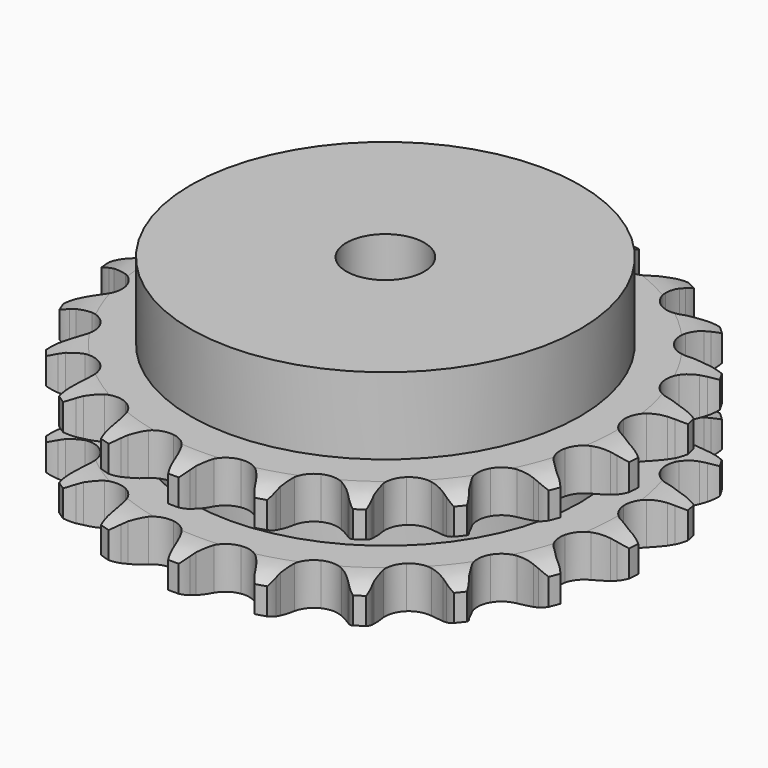
from build123d import *

# Parameters (mm, degrees)
PAD_DEPTH         = 30.3
SKETCH001_R       = 50
PAD001_DEPTH      = 50
SKETCH002_R       = 10
POCKET_DEPTH      = 0.001
POCKET_DEPTH_BACK = 50.001


with BuildPart() as part:
    # Sprocket → Pad (new body)
    with BuildSketch(Plane.XY):
        with BuildLine():
            ThreePointArc((-10.414973, 69.098829), (-8.724114, 67.329966), (-7.515976, 65.201991))
            Line((-7.515976, 65.201991), (-6.933334, 63.79702))
            ThreePointArc((-6.933334, 63.79702), (-5.997831, 61.908917), (-4.8188, 60.162498))
            ThreePointArc((-4.8188, 60.162498), (-2.682336, 58.425798), (0, 57.804771))
            ThreePointArc((0, 57.804771), (2.682336, 58.425798), (4.8188, 60.162498))
            ThreePointArc((4.8188, 60.162498), (5.997831, 61.908917), (6.933334, 63.79702))
            Line((6.933334, 63.79702), (7.515976, 65.201991))
            ThreePointArc((7.515976, 65.201991), (8.724114, 67.329966), (10.414973, 69.098829))
            ThreePointArc((10.414973, 69.098829), (11.50933, 66.910163), (12.036562, 64.520622))
            Line((12.036562, 64.520622), (12.179197, 63.006333))
            ThreePointArc((12.179197, 63.006333), (12.516609, 60.92637), (13.128493, 58.910013))
            ThreePointArc((13.128493, 58.910013), (14.658139, 56.620737), (17.038255, 55.236667))
            ThreePointArc((17.038255, 55.236667), (19.784474, 55.039472), (22.337922, 56.069281))
            Line((22.337922, 56.069281), (25.429807, 58.919061))
            ThreePointArc((25.429807, 58.919061), (25.901113, 59.516189), (26.400686, 60.089876))
            ThreePointArc((26.400686, 60.089876), (28.182382, 61.767207), (30.319502, 62.959095))
            ThreePointArc((30.319502, 62.959095), (30.720119, 60.545097), (30.519599, 58.106313))
            Line((30.519599, 58.106313), (30.209552, 56.617257))
            ThreePointArc((30.209552, 56.617257), (29.918894, 54.530247), (29.909262, 52.423115))
            ThreePointArc((29.909262, 52.423115), (30.696174, 49.784674), (32.562587, 47.760543))
            ThreePointArc((32.562587, 47.760543), (35.128674, 46.762646), (37.872221, 46.994062))
            Line((37.872221, 46.994062), (41.66673, 48.805885))
            ThreePointArc((41.66673, 48.805885), (42.293104, 49.237564), (42.93958, 49.638513))
            ThreePointArc((42.93958, 49.638513), (45.136522, 50.71616), (47.530011, 51.225169))
            ThreePointArc((47.530011, 51.225169), (47.201291, 48.800335), (46.290835, 46.529003))
            Line((46.290835, 46.529003), (45.555656, 45.19749))
            ThreePointArc((45.555656, 45.19749), (44.662754, 43.288872), (44.032462, 41.278194))
            ThreePointArc((44.032462, 41.278194), (44.006719, 38.525024), (45.19359, 36.040685))
            ThreePointArc((45.19359, 36.040685), (47.351538, 34.330755), (50.041408, 33.743214))
            Line((50.041408, 33.743214), (54.201381, 34.356093))
            ThreePointArc((54.201381, 34.356093), (54.927167, 34.583966), (55.663103, 34.77655))
            ThreePointArc((55.663103, 34.77655), (58.080084, 35.15876), (60.517269, 34.939662))
            ThreePointArc((60.517269, 34.939662), (59.488421, 32.719448), (57.948927, 30.817387))
            Line((57.948927, 30.817387), (56.85394, 29.761727))
            ThreePointArc((56.85394, 29.761727), (55.438132, 28.201091), (54.243185, 26.465523))
            ThreePointArc((54.243185, 26.465523), (53.407075, 23.842257), (53.808944, 21.118454))
            ThreePointArc((53.808944, 21.118454), (55.36701, 18.848425), (57.764195, 17.494134))
            Line((57.764195, 17.494134), (61.920002, 16.85361))
            ThreePointArc((61.920002, 16.85361), (62.68071, 16.857431), (63.440716, 16.824537))
            ThreePointArc((63.440716, 16.824537), (65.862975, 16.47735), (68.127303, 15.549612))
            ThreePointArc((68.127303, 15.549612), (66.489744, 13.731295), (64.458003, 12.367511))
            Line((64.458003, 12.367511), (63.100502, 11.681504))
            ThreePointArc((63.100502, 11.681504), (61.287589, 10.607519), (59.634162, 9.301275))
            ThreePointArc((59.634162, 9.301275), (58.061977, 7.041001), (57.643137, 4.319756))
            ThreePointArc((57.643137, 4.319756), (58.462879, 1.691329), (60.354381, -0.309377))
            Line((60.354381, -0.309377), (64.136759, -2.146389))
            ThreePointArc((64.136759, -2.146389), (64.864797, -2.366961), (65.581342, -2.622409))
            ThreePointArc((65.581342, -2.622409), (67.793652, -3.668145), (69.683927, -5.222088))
            ThreePointArc((69.683927, -5.222088), (67.583162, -6.476945), (65.239703, -7.181273))
            Line((65.239703, -7.181273), (63.740307, -7.436672))
            ThreePointArc((63.740307, -7.436672), (61.691375, -7.928577), (59.726382, -8.689432))
            ThreePointArc((59.726382, -8.689432), (57.557818, -10.385879), (56.355485, -12.862772))
            ThreePointArc((56.355485, -12.862772), (56.364066, -15.616048), (57.581815, -18.085398))
            Line((57.581815, -18.085398), (60.654683, -20.955673))
            ThreePointArc((60.654683, -20.955673), (61.285362, -21.381038), (61.894779, -21.836342))
            ThreePointArc((61.894779, -21.836342), (63.700565, -23.487709), (65.048828, -25.529784))
            ThreePointArc((65.048828, -25.529784), (62.671518, -26.109679), (60.224568, -26.091969))
            Line((60.224568, -26.091969), (58.716507, -25.894067))
            ThreePointArc((58.716507, -25.894067), (56.613611, -25.760184), (54.511652, -25.908046))
            ThreePointArc((54.511652, -25.908046), (51.939394, -26.889928), (50.0604, -28.902385))
            ThreePointArc((50.0604, -28.902385), (49.257058, -31.535871), (49.692851, -34.254452))
            Line((49.692851, -34.254452), (51.783173, -37.902953))
            ThreePointArc((51.783173, -37.902953), (52.260453, -38.495316), (52.708592, -39.110021))
            ThreePointArc((52.708592, -39.110021), (53.947404, -41.220288), (54.633855, -43.569046))
            ThreePointArc((54.633855, -43.569046), (52.191236, -43.422453), (49.858217, -42.684279))
            Line((49.858217, -42.684279), (48.475487, -42.05066))
            ThreePointArc((48.475487, -42.05066), (46.505479, -41.302886), (44.453321, -40.824615))
            ThreePointArc((44.453321, -40.824615), (41.705927, -41.004689), (39.317229, -42.373896))
            ThreePointArc((39.317229, -42.373896), (37.773344, -44.653593), (37.38846, -47.379848))
            Line((37.38846, -47.379848), (38.3105, -51.482389))
            ThreePointArc((38.3105, -51.482389), (38.591975, -52.189116), (38.839016, -52.908603))
            ThreePointArc((38.839016, -52.908603), (39.400779, -55.290262), (39.364425, -57.737007))
            ThreePointArc((39.364425, -57.737007), (37.073533, -56.876952), (35.061744, -55.483904))
            Line((35.061744, -55.483904), (33.927207, -54.470868))
            ThreePointArc((33.927207, -54.470868), (32.265132, -53.175646), (30.445118, -52.113739))
            ThreePointArc((30.445118, -52.113739), (27.766705, -51.476003), (25.08055, -52.080299))
            ThreePointArc((25.08055, -52.080299), (22.933302, -53.803648), (21.761941, -56.295337))
            Line((21.761941, -56.295337), (21.433772, -60.487389))
            ThreePointArc((21.433772, -60.487389), (21.494429, -61.245685), (21.518423, -62.006023))
            ThreePointArc((21.518423, -62.006023), (21.353222, -64.447455), (20.597292, -66.774781))
            ThreePointArc((20.597292, -66.774781), (18.661684, -65.277684), (17.149881, -63.35354))
            Line((17.149881, -63.35354), (16.364346, -62.0511))
            ThreePointArc((16.364346, -62.0511), (15.157886, -60.323516), (13.731733, -58.772328))
            ThreePointArc((13.731733, -58.772328), (11.36029, -57.373449), (8.615354, -57.159139))
            ThreePointArc((8.615354, -57.159139), (6.055537, -58.173012), (4.201777, -60.208737))
            Line((4.201777, -60.208737), (2.652558, -64.117819))
            ThreePointArc((2.652558, -64.117819), (2.48701, -64.860305), (2.285824, -65.593936))
            ThreePointArc((2.285824, -65.593936), (1.408338, -67.878208), (0, -69.879324))
            ThreePointArc((0, -69.879324), (-1.408338, -67.878208), (-2.285824, -65.593936))
            Line((-2.285824, -65.593936), (-2.652558, -64.117819))
            ThreePointArc((-2.652558, -64.117819), (-3.296205, -62.111376), (-4.201777, -60.208737))
            ThreePointArc((-4.201777, -60.208737), (-6.055537, -58.173012), (-8.615354, -57.159139))
            ThreePointArc((-8.615354, -57.159139), (-11.36029, -57.373449), (-13.731733, -58.772328))
            Line((-13.731733, -58.772328), (-16.364346, -62.0511))
            ThreePointArc((-16.364346, -62.0511), (-16.741392, -62.711802), (-17.149881, -63.35354))
            ThreePointArc((-17.149881, -63.35354), (-18.661684, -65.277684), (-20.597292, -66.774781))
            ThreePointArc((-20.597292, -66.774781), (-21.353222, -64.447455), (-21.518423, -62.006023))
            Line((-21.518423, -62.006023), (-21.433772, -60.487389))
            ThreePointArc((-21.433772, -60.487389), (-21.457413, -58.380369), (-21.761941, -56.295337))
            ThreePointArc((-21.761941, -56.295337), (-22.933302, -53.803648), (-25.08055, -52.080299))
            ThreePointArc((-25.08055, -52.080299), (-27.766705, -51.476003), (-30.445118, -52.113739))
            Line((-30.445118, -52.113739), (-33.927207, -54.470868))
            ThreePointArc((-33.927207, -54.470868), (-34.482247, -54.991081), (-35.061744, -55.483904))
            ThreePointArc((-35.061744, -55.483904), (-37.073533, -56.876952), (-39.364425, -57.737007))
            ThreePointArc((-39.364425, -57.737007), (-39.400779, -55.290262), (-38.839016, -52.908603))
            Line((-38.839016, -52.908603), (-38.3105, -51.482389))
            ThreePointArc((-38.3105, -51.482389), (-37.712036, -49.462009), (-37.38846, -47.379848))
            ThreePointArc((-37.38846, -47.379848), (-37.773344, -44.653593), (-39.317229, -42.373896))
            ThreePointArc((-39.317229, -42.373896), (-41.705927, -41.004689), (-44.453321, -40.824615))
            Line((-44.453321, -40.824615), (-48.475487, -42.05066))
            ThreePointArc((-48.475487, -42.05066), (-49.159203, -42.384161), (-49.858217, -42.684279))
            ThreePointArc((-49.858217, -42.684279), (-52.191236, -43.422453), (-54.633855, -43.569046))
            ThreePointArc((-54.633855, -43.569046), (-53.947404, -41.220288), (-52.708592, -39.110021))
            Line((-52.708592, -39.110021), (-51.783173, -37.902953))
            ThreePointArc((-51.783173, -37.902953), (-50.61578, -36.148733), (-49.692851, -34.254452))
            ThreePointArc((-49.692851, -34.254452), (-49.257058, -31.535871), (-50.0604, -28.902385))
            ThreePointArc((-50.0604, -28.902385), (-51.939394, -26.889928), (-54.511652, -25.908046))
            Line((-54.511652, -25.908046), (-58.716507, -25.894067))
            ThreePointArc((-58.716507, -25.894067), (-59.468148, -26.011222), (-60.224568, -26.091969))
            ThreePointArc((-60.224568, -26.091969), (-62.671518, -26.109679), (-65.048828, -25.529784))
            ThreePointArc((-65.048828, -25.529784), (-63.700565, -23.487709), (-61.894779, -21.836342))
            Line((-61.894779, -21.836342), (-60.654683, -20.955673))
            ThreePointArc((-60.654683, -20.955673), (-59.022089, -19.623483), (-57.581815, -18.085398))
            ThreePointArc((-57.581815, -18.085398), (-56.364066, -15.616048), (-56.355485, -12.862772))
            ThreePointArc((-56.355485, -12.862772), (-57.557818, -10.385879), (-59.726382, -8.689432))
            Line((-59.726382, -8.689432), (-63.740307, -7.436672))
            ThreePointArc((-63.740307, -7.436672), (-64.493088, -7.327072), (-65.239703, -7.181273))
            ThreePointArc((-65.239703, -7.181273), (-67.583162, -6.476945), (-69.683927, -5.222088))
            ThreePointArc((-69.683927, -5.222088), (-67.793652, -3.668145), (-65.581342, -2.622409))
            Line((-65.581342, -2.622409), (-64.136759, -2.146389))
            ThreePointArc((-64.136759, -2.146389), (-62.184026, -1.354601), (-60.354381, -0.309377))
            ThreePointArc((-60.354381, -0.309377), (-58.462879, 1.691329), (-57.643137, 4.319756))
            ThreePointArc((-57.643137, 4.319756), (-58.061977, 7.041001), (-59.634162, 9.301275))
            Line((-59.634162, 9.301275), (-63.100502, 11.681504))
            ThreePointArc((-63.100502, 11.681504), (-63.787533, 12.00812), (-64.458003, 12.367511))
            ThreePointArc((-64.458003, 12.367511), (-66.489744, 13.731295), (-68.127303, 15.549612))
            ThreePointArc((-68.127303, 15.549612), (-65.862975, 16.47735), (-63.440716, 16.824537))
            Line((-63.440716, 16.824537), (-61.920002, 16.85361))
            ThreePointArc((-61.920002, 16.85361), (-59.82064, 17.034644), (-57.764195, 17.494134))
            ThreePointArc((-57.764195, 17.494134), (-55.36701, 18.848425), (-53.808944, 21.118454))
            ThreePointArc((-53.808944, 21.118454), (-53.407075, 23.842257), (-54.243185, 26.465523))
            Line((-54.243185, 26.465523), (-56.85394, 29.761727))
            ThreePointArc((-56.85394, 29.761727), (-57.414177, 30.276339), (-57.948927, 30.817387))
            ThreePointArc((-57.948927, 30.817387), (-59.488421, 32.719448), (-60.517269, 34.939662))
            ThreePointArc((-60.517269, 34.939662), (-58.080084, 35.15876), (-55.663103, 34.77655))
            Line((-55.663103, 34.77655), (-54.201381, 34.356093))
            ThreePointArc((-54.201381, 34.356093), (-52.141927, 33.910285), (-50.041408, 33.743214))
            ThreePointArc((-50.041408, 33.743214), (-47.351538, 34.330755), (-45.19359, 36.040685))
            ThreePointArc((-45.19359, 36.040685), (-44.006719, 38.525024), (-44.032462, 41.278194))
            Line((-44.032462, 41.278194), (-45.555656, 45.19749))
            ThreePointArc((-45.555656, 45.19749), (-45.939318, 45.854372), (-46.290835, 46.529003))
            ThreePointArc((-46.290835, 46.529003), (-47.201291, 48.800335), (-47.530011, 51.225169))
            ThreePointArc((-47.530011, 51.225169), (-45.136522, 50.71616), (-42.93958, 49.638513))
            Line((-42.93958, 49.638513), (-41.66673, 48.805885))
            ThreePointArc((-41.66673, 48.805885), (-39.830176, 47.772849), (-37.872221, 46.994062))
            ThreePointArc((-37.872221, 46.994062), (-35.128674, 46.762646), (-32.562587, 47.760543))
            ThreePointArc((-32.562587, 47.760543), (-30.696174, 49.784674), (-29.909262, 52.423115))
            Line((-29.909262, 52.423115), (-30.209552, 56.617257))
            ThreePointArc((-30.209552, 56.617257), (-30.38255, 57.358042), (-30.519599, 58.106313))
            ThreePointArc((-30.519599, 58.106313), (-30.720119, 60.545097), (-30.319502, 62.959095))
            ThreePointArc((-30.319502, 62.959095), (-28.182382, 61.767207), (-26.400686, 60.089876))
            Line((-26.400686, 60.089876), (-25.429807, 58.919061))
            ThreePointArc((-25.429807, 58.919061), (-23.979338, 57.390586), (-22.337922, 56.069281))
            ThreePointArc((-22.337922, 56.069281), (-19.784474, 55.039472), (-17.038255, 55.236667))
            ThreePointArc((-17.038255, 55.236667), (-14.658139, 56.620737), (-13.128493, 58.910013))
            Line((-13.128493, 58.910013), (-12.179197, 63.006333))
            ThreePointArc((-12.179197, 63.006333), (-12.126159, 63.765199), (-12.036562, 64.520622))
            ThreePointArc((-12.036562, 64.520622), (-11.50933, 66.910163), (-10.414973, 69.098829))
        make_face()
    extrude(amount=PAD_DEPTH)

    # Sketch → Groove (revolve, cut)
    with BuildSketch(Plane.XZ):
        with BuildLine():
            ThreePointArc((59.514719, 0), (63.873618, 0.506758), (68, 2))
            Line((68, 2), (68, 8.8))
            ThreePointArc((68, 8.8), (63.873618, 10.293242), (59.514719, 10.8))
            Line((50, 10.8), (59.514719, 10.8))
            Line((50, 19.5), (50, 10.8))
            Line((59.514719, 19.5), (50, 19.5))
            ThreePointArc((59.514719, 19.5), (63.873618, 20.006758), (68, 21.5))
            Line((68, 21.5), (68, 28.3))
            ThreePointArc((68, 28.3), (63.873618, 29.793242), (59.514719, 30.3))
            Line((59.514719, 30.3), (78, 30.3))
            Line((78, 30.3), (78, 0))
            Line((59.514719, 0), (78, 0))
        make_face()
    revolve(axis=Axis((0, 0, 0), (0, 0, 1)), mode=Mode.SUBTRACT)

    # Sketch001 → Pad001 (join)
    with BuildSketch(Plane.XY):
        Circle(SKETCH001_R)
    extrude(amount=PAD001_DEPTH)

    # Sketch002 → Pocket (cut, two sides)
    with BuildSketch(Plane.XY) as pocket_sk:
        Circle(SKETCH002_R)
    extrude(amount=-POCKET_DEPTH, mode=Mode.SUBTRACT)
    extrude(pocket_sk.sketch, amount=POCKET_DEPTH_BACK, mode=Mode.SUBTRACT)


solid = part.part
